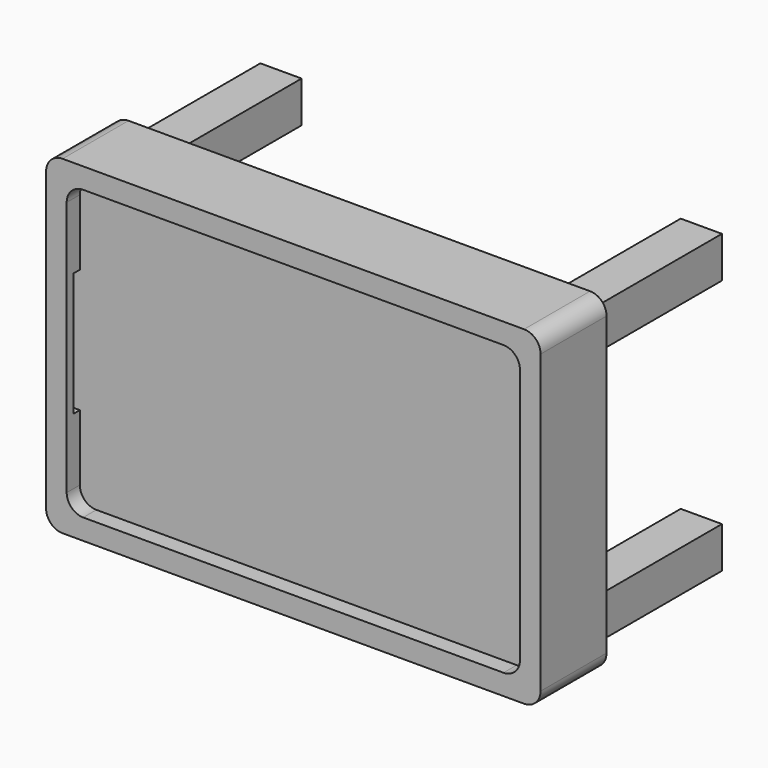
from build123d import *

# Parameters (mm, degrees)
F0_W      = 152.4
F0_H      = 101.6
F1_DEPTH  = 12.7
F2_W      = 139.7
F2_H      = 88.9
F3_DEPTH  = 5.08
F4_R      = 5.08
F5_W      = 2.54
F5_H      = 38.1
F6_DEPTH  = 5.08
F7_W      = 2.54
F7_H      = 38.1
F8_DEPTH  = 5.08
F9_W      = 12.7
F9_H      = 12.7
F10_DEPTH = 50.8


with BuildPart() as f1:
    # F0 (on Front) → F1 (new body, symmetric)
    with BuildSketch(Plane.XZ):
        Rectangle(F0_W, F0_H)
    extrude(amount=F1_DEPTH, both=True)

    # F2 (on face) → F3 (cut)
    with BuildSketch(Plane.XZ.offset(12.7)):
        Rectangle(F2_W, F2_H)
    extrude(amount=-F3_DEPTH, mode=Mode.SUBTRACT)

    # F4
    f4_edges = [f1.edges().sort_by_distance(p)[0] for p in [
        (-69.85, -10.16, -44.45),
        (69.85, -10.16, -44.45),
        (69.85, -10.16, 44.45),
        (-69.85, -10.16, 44.45),
        (-76.2, 0, 50.8),
        (-76.2, 0, -50.8),
        (76.2, 0, 50.8),
        (76.2, 0, -50.8),
    ]]
    fillet(f4_edges, radius=F4_R)

    # F5 (on face) → F6 (cut)
    with BuildSketch(Plane.YZ.offset(-69.85)):
        with Locations((-8.89, 0)):
            Rectangle(F5_W, F5_H)
    extrude(amount=-F6_DEPTH, mode=Mode.SUBTRACT)

    # F7 (on face) → F8 (cut)
    with BuildSketch(Plane(origin=(69.85, 0, 0), x_dir=(0, -1, 0), z_dir=(-1, 0, 0))):
        with Locations((8.89, 0)):
            Rectangle(F7_W, F7_H)
    extrude(amount=-F8_DEPTH, mode=Mode.SUBTRACT)

    # F9 (on face) → F10 (join)
    with BuildSketch(Plane(origin=(0, 12.7, 0), x_dir=(-1, 0, 0), z_dir=(0, 1, 0))):
        with Locations((64.77, 39.37)):
            Rectangle(F9_W, F9_H)
        with Locations((64.77, -39.37)):
            Rectangle(F9_W, F9_H)
        with Locations((-64.77, 39.37)):
            Rectangle(F9_W, F9_H)
        with Locations((-64.77, -39.37)):
            Rectangle(F9_W, F9_H)
    extrude(amount=F10_DEPTH)


solid = f1.part
